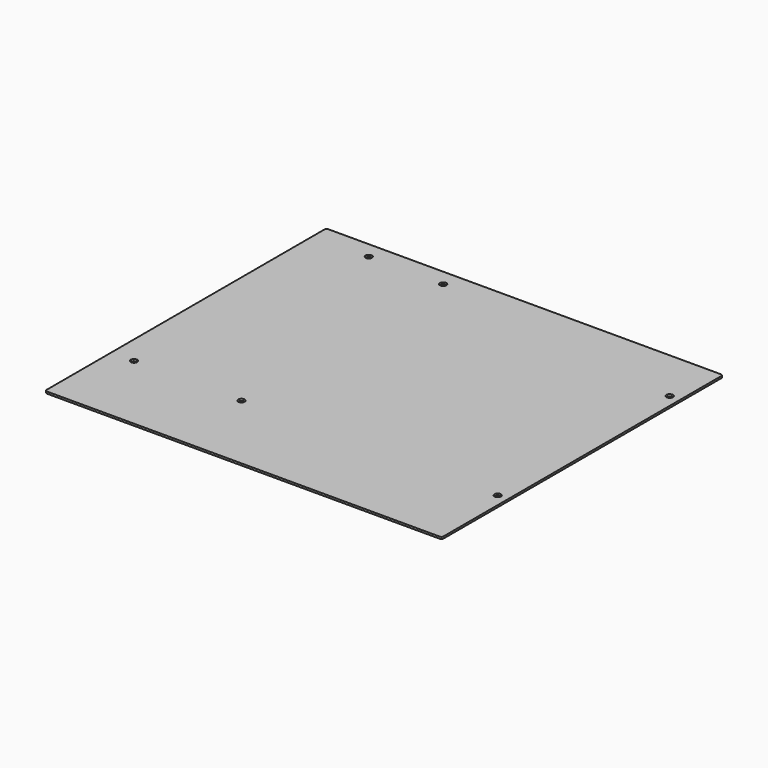
from build123d import *

# Parameters (mm, degrees)
F0_W     = 243.84
F0_H     = 216
F0_R     = 1.9812
F1_DEPTH = 1.2
F2_R     = 1.3


with BuildPart() as f1:
    # F0 (on Top) → F1 (new body)
    with BuildSketch(Plane.XY):
        Rectangle(F0_W, F0_H)
        with Locations((-107.95, -57.1)):
            Circle(F0_R, mode=Mode.SUBTRACT)
        with Locations((-41.91, -57.1)):
            Circle(F0_R, mode=Mode.SUBTRACT)
        with Locations((115.57, -57.1)):
            Circle(F0_R, mode=Mode.SUBTRACT)
        with Locations((-87.63, 97.84)):
            Circle(F0_R, mode=Mode.SUBTRACT)
        with Locations((-41.91, 97.84)):
            Circle(F0_R, mode=Mode.SUBTRACT)
        with Locations((115.57, 74.98)):
            Circle(F0_R, mode=Mode.SUBTRACT)
    extrude(amount=F1_DEPTH)

    # F2
    f2_edges = [f1.edges().sort_by_distance(p)[0] for p in [
        (-121.92, -108, 0.6),
        (121.92, -108, 0.6),
        (-121.92, 108, 0.6),
        (121.92, 108, 0.6),
    ]]
    fillet(f2_edges, radius=F2_R)


solid = f1.part
